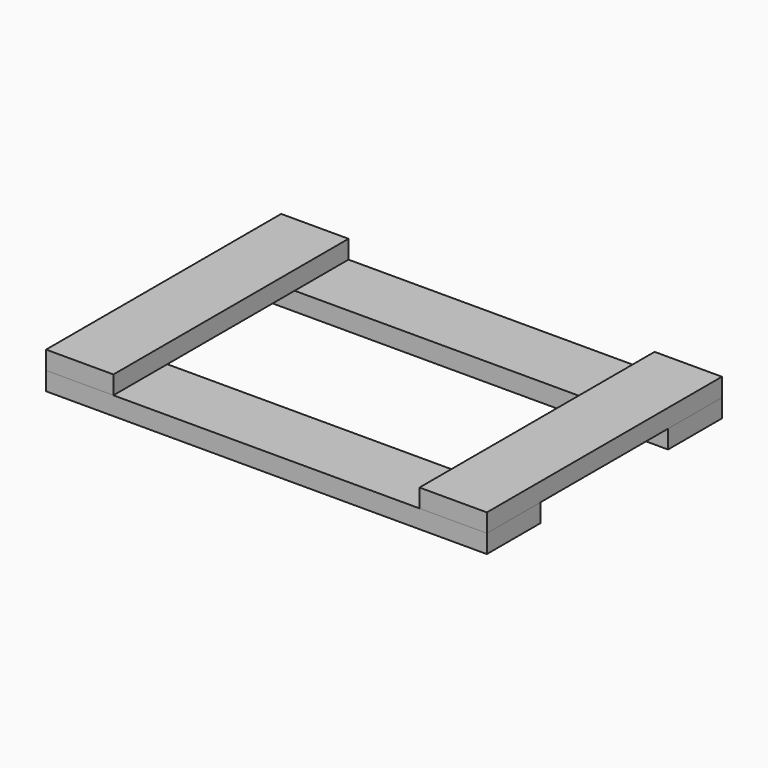
from build123d import *

# Parameters (mm, degrees)
F0_W     = 13.97
F0_H     = 60.96
F1_DEPTH = 3.81
F2_DEPTH = 3.81
F6_W     = 91.44
F6_H     = 13.97
F7_DEPTH = 3.81


with BuildPart() as f1:
    # F0 (on Top) → F1 (new body)
    with BuildSketch(Plane.XY):
        with Locations((38.735, 36.1928632441)):
            Rectangle(F0_W, F0_H)
    extrude(amount=F1_DEPTH)

    # F0 (on Top) → F2 (join)
    with BuildSketch(Plane.XY):
        with Locations((38.735, 36.1928632441)):
            Rectangle(F0_W, F0_H)
    extrude(amount=F2_DEPTH)


with BuildPart() as f2:
    # F0 (on Top) → F2, piece 2 (new body)
    with BuildSketch(Plane.XY):
        with Locations((-38.735, 36.1928632441)):
            Rectangle(F0_W, F0_H)
    extrude(amount=F2_DEPTH)


with BuildPart() as f2_1:
    # F4: moved
    add(f2.part.moved(Location((45.72, -36.1928632441, 0))))


with BuildPart() as f1_1:
    # F4: moved
    add(f1.part.moved(Location((45.72, -36.1928632441, 0))))


with BuildPart() as f2_2:
    # F5: moved
    add(f2_1.part.moved(Location((-45.72, 0, 0))))


with BuildPart() as f1_2:
    # F5: moved
    add(f1_1.part.moved(Location((-45.72, 0, 0))))


with BuildPart() as f7:
    # F6 (on Top) → F7 (new body)
    with BuildSketch(Plane.XY):
        with Locations((0, -23.495)):
            Rectangle(F6_W, F6_H)
    extrude(amount=F7_DEPTH)


with BuildPart() as f7b:
    # F6 (on Top) → F7, piece 2 (new body)
    with BuildSketch(Plane.XY):
        with Locations((0, 23.495)):
            Rectangle(F6_W, F6_H)
    extrude(amount=F7_DEPTH)


with BuildPart() as f2_3:
    # F8: moved
    add(f2_2.part.moved(Location((0, 0, 3.81))))


with BuildPart() as f1_3:
    # F9: moved
    add(f1_2.part.moved(Location((0, 0, 3.81))))


solid = Compound([f7.part, f7b.part, f2_3.part, f1_3.part])
